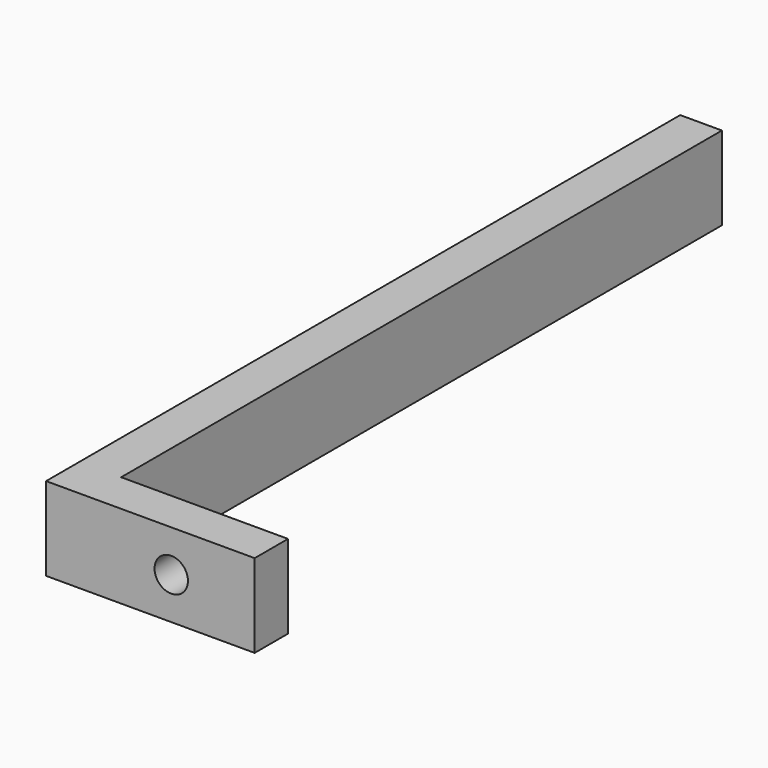
from build123d import *

# Parameters (mm, degrees)
PAD_DEPTH   = 10
SKETCH001_R = 2
HOLE_DEPTH  = 23.798279
HOLE_TIPS_R = 2


with BuildPart() as part:
    # Sketch → Pad (new body)
    with BuildSketch(Plane.XY):
        Polygon((0, 95), (0, 0), (25, 0), (25, 5), (5, 5), (5, 95), align=None)
    extrude(amount=PAD_DEPTH)

    # Sketch001 (on Face2 of Pad) → Hole (cut)
    with BuildSketch(Plane.XZ):
        with Locations((15, 5)):
            Circle(SKETCH001_R)
    extrude(amount=-HOLE_DEPTH, mode=Mode.SUBTRACT)

    # Hole tips → Hole tip 1 section 0
    with BuildSketch(Plane.XZ.offset(-23.798279), mode=Mode.PRIVATE) as hole_tip_1_s0:
        with Locations((15, 5)):
            Circle(HOLE_TIPS_R)
    loft([hole_tip_1_s0.sketch, Vertex(15, 25, 5)], mode=Mode.SUBTRACT)


solid = part.part
